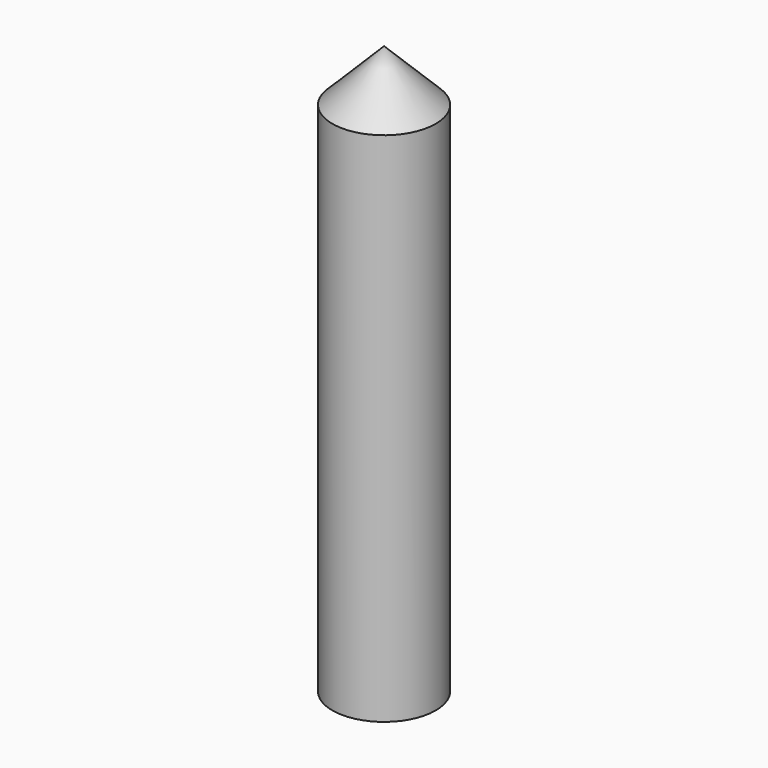
from build123d import *

# Parameters (mm, degrees)
F0_R     = 1.5
F1_DEPTH = 15


with BuildPart() as f1:
    # F0 (on Top) → F1 (new body)
    with BuildSketch(Plane.XY):
        Circle(F0_R)
    extrude(amount=F1_DEPTH)

    # F2 (on Front) → F3 (revolve)
    with BuildSketch(Plane.XZ):
        Polygon((0, 16.5), (0, 15), (1.5, 15), align=None)
    revolve(axis=Axis((0, 0, 15.75), (0, 0, 1)))


solid = f1.part
